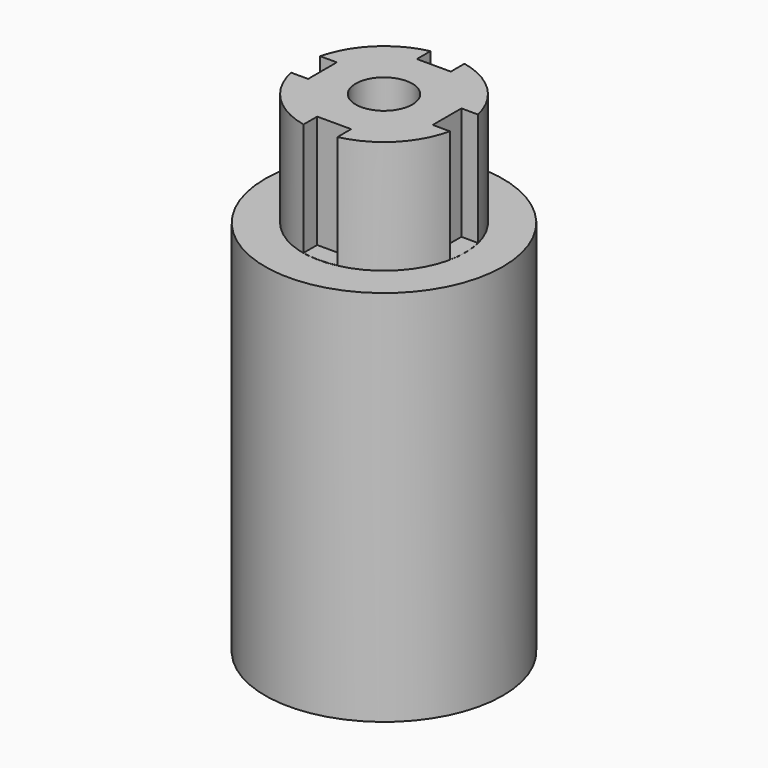
from build123d import *

# Parameters (mm, degrees)
SKETCH_R        = 6.3
PAD_DEPTH       = 20
SKETCH001_R     = 4.3
PAD001_DEPTH    = 6
SKETCH002_W     = 1.8
SKETCH002_H     = 1.7
SKETCH002_W_2   = 1.4
SKETCH002_H_2   = 1.9
SKETCH002_W_3   = 1.7
POCKET_DEPTH    = 5.99
SKETCH003_R     = 4.5
POCKET001_DEPTH = 7
SKETCH004_W     = 1.3
SKETCH004_H     = 1.5
SKETCH004_W_2   = 1.5
SKETCH004_H_2   = 1.3
PAD002_DEPTH    = 7
SKETCH005_R     = 1.5
POCKET002_DEPTH = 50


with BuildPart() as part:
    # Sketch → Pad (new body)
    with BuildSketch(Plane.XY):
        with Locations((7, 7)):
            Circle(SKETCH_R)
    extrude(amount=PAD_DEPTH)

    # Sketch001 (on Face3 of Pad) → Pad001 (join)
    with BuildSketch(Plane.XY.offset(20)):
        with Locations((7, 7)):
            Circle(SKETCH001_R)
    extrude(amount=PAD001_DEPTH)

    # Sketch002 (on Face5 of Pad001) → Pocket (cut)
    with BuildSketch(Plane.XY.offset(26)):
        with Locations((7, 11.15)):
            Rectangle(SKETCH002_W, SKETCH002_H)
        with Locations((7, 2.85)):
            Rectangle(SKETCH002_W, SKETCH002_H)
        with Locations((3, 7.05)):
            Rectangle(SKETCH002_W_2, SKETCH002_H_2)
        with Locations((11.15, 7.05)):
            Rectangle(SKETCH002_W_3, SKETCH002_H_2)
    extrude(amount=-POCKET_DEPTH, mode=Mode.SUBTRACT)

    # Sketch003 (on Face2 of Pocket) → Pocket001 (cut)
    with BuildSketch(Plane(origin=(0, 0, 0), x_dir=(1, 0, 0), z_dir=(0, 0, -1))):
        with Locations((7, -7)):
            Circle(SKETCH003_R)
    extrude(amount=-POCKET001_DEPTH, mode=Mode.SUBTRACT)

    # Sketch004 (on Face6 of Pocket001) → Pad002 (join)
    with BuildSketch(Plane(origin=(0, 0, 7), x_dir=(1, 0, 0), z_dir=(0, 0, -1))):
        with Locations((7, -2.9)):
            Rectangle(SKETCH004_W, SKETCH004_H)
        with Locations((7, -11.1)):
            Rectangle(SKETCH004_W, SKETCH004_H)
        with Locations((11.1, -7)):
            Rectangle(SKETCH004_W_2, SKETCH004_H_2)
        with Locations((2.9, -7)):
            Rectangle(SKETCH004_W_2, SKETCH004_H_2)
    extrude(amount=PAD002_DEPTH)

    # Sketch005 (on Face28 of Pad002) → Pocket002 (cut)
    with BuildSketch(Plane.XY.offset(26)):
        with Locations((7, 7)):
            Circle(SKETCH005_R)
    extrude(amount=-POCKET002_DEPTH, mode=Mode.SUBTRACT)


solid = part.part
